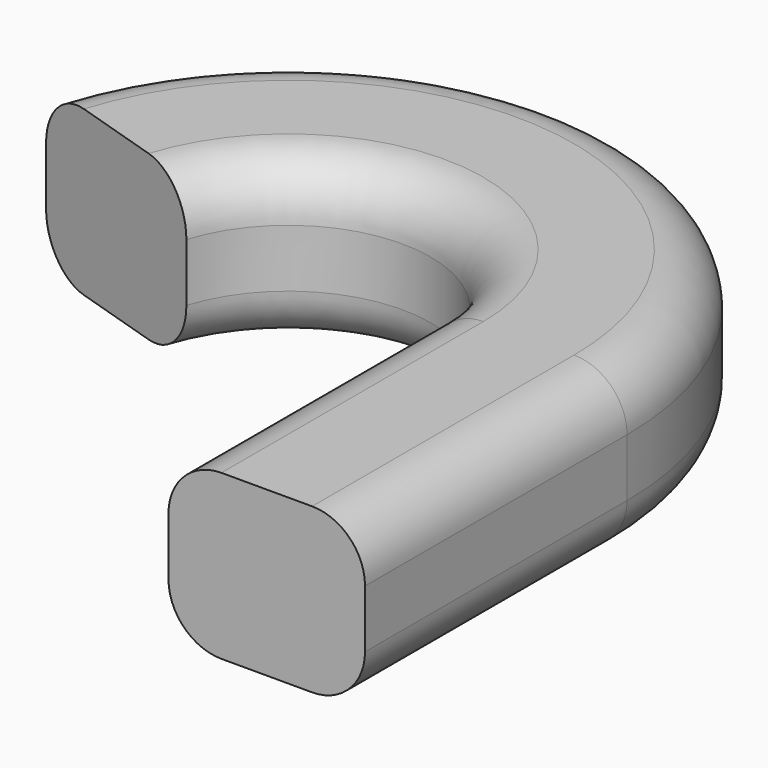
from build123d import *


with BuildPart() as f2:
    # F2: sweep along a path in F1
    with BuildLine(Plane.XY) as f2_path:
        Line((0, 0), (0, 12.7))
        ThreePointArc((0, 12.7), (-7.916317, 21.924843), (-18.2359, 15.500513))
    # F0 (on Front) → F2 (sweep)
    with BuildSketch(Plane.XZ):
        with BuildLine():
            Line((-1.758461, -3.175), (1.758461, -3.175))
            ThreePointArc((1.758461, -3.175), (3.209118, -2.574118), (3.81, -1.123461))
            Line((3.81, -1.123461), (3.81, 1.123461))
            ThreePointArc((3.81, 1.123461), (3.209118, 2.574118), (1.758461, 3.175))
            Line((1.758461, 3.175), (-1.758461, 3.175))
            ThreePointArc((-1.758461, 3.175), (-3.209118, 2.574118), (-3.81, 1.123461))
            Line((-3.81, 1.123461), (-3.81, -1.123461))
            ThreePointArc((-3.81, -1.123461), (-3.209118, -2.574118), (-1.758461, -3.175))
        make_face()
    sweep(path=f2_path.line)


solid = f2.part
